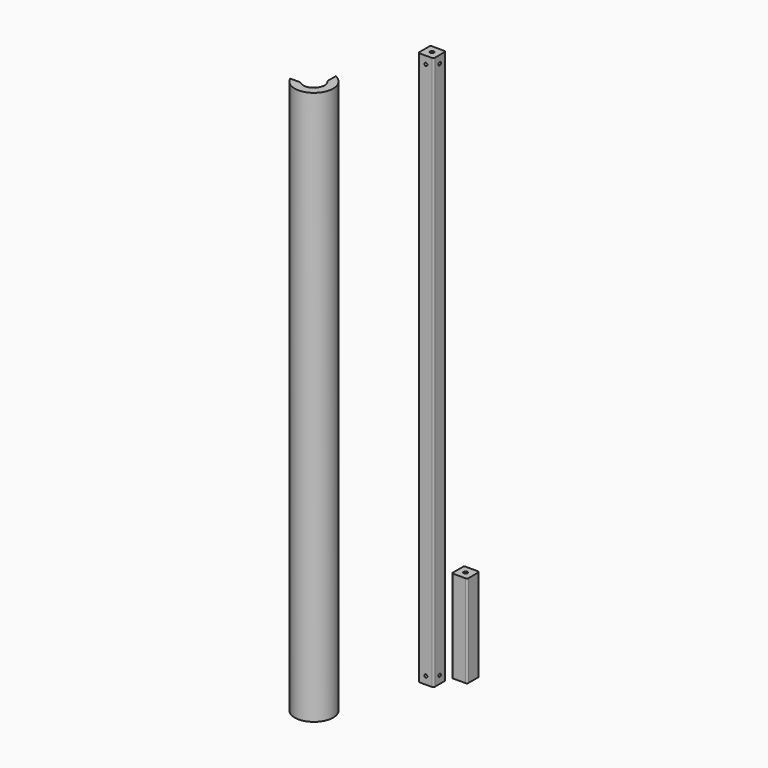
from build123d import *

# Parameters (mm, degrees)
F0_R      = 3.175
F1_DEPTH  = 914.4
F2_R      = 3.175
F3_DEPTH  = 152.4
F4_R      = 2.54
F5_DEPTH  = 25.4
F6_R      = 2.54
F7_DEPTH  = 25.4
F9_DEPTH  = 914.4
F11_W     = 25.4
F11_H     = 50.8
F12_DEPTH = 30.1625


with BuildPart() as f1:
    # F0 (on Top) → F1 (new body)
    with BuildSketch(Plane.XY):
        with BuildLine():
            Line((-108.622879, 28.047709), (-88.302879, 28.047709))
            ThreePointArc((-88.302879, 28.047709), (-86.506827, 28.791658), (-85.762879, 30.587709))
            Line((-85.762879, 30.587709), (-85.762879, 50.907709))
            ThreePointArc((-85.762879, 50.907709), (-86.506827, 52.70376), (-88.302879, 53.447709))
            Line((-88.302879, 53.447709), (-108.622879, 53.447709))
            ThreePointArc((-108.622879, 53.447709), (-110.41893, 52.70376), (-111.162879, 50.907709))
            Line((-111.162879, 50.907709), (-111.162879, 30.587709))
            ThreePointArc((-111.162879, 30.587709), (-110.41893, 28.791658), (-108.622879, 28.047709))
        make_face()
        with Locations((-98.462879, 40.747709)):
            Circle(F0_R, mode=Mode.SUBTRACT)
    extrude(amount=F1_DEPTH)

    # F4 (on face) → F5 (cut)
    with BuildSketch(Plane.XZ.offset(-28.047709)):
        with Locations((-98.462879, 12.7)):
            Circle(F4_R)
        with Locations((-98.462879, 901.7)):
            Circle(F4_R)
    extrude(amount=-F5_DEPTH, mode=Mode.SUBTRACT)

    # F6 (on face) → F7 (cut)
    with BuildSketch(Plane.YZ.offset(-85.762879)):
        with Locations((40.747709, 12.7)):
            Circle(F6_R)
        with Locations((40.747709, 901.7)):
            Circle(F6_R)
    extrude(amount=-F7_DEPTH, mode=Mode.SUBTRACT)


with BuildPart() as f3:
    # F2 (on Top) → F3 (new body)
    with BuildSketch(Plane.XY):
        with BuildLine():
            Line((-81.403815, 63.465207), (-61.083815, 63.465207))
            ThreePointArc((-61.083815, 63.465207), (-59.287764, 64.209156), (-58.543815, 66.005207))
            Line((-58.543815, 66.005207), (-58.543815, 86.325207))
            ThreePointArc((-58.543815, 86.325207), (-59.287764, 88.121258), (-61.083815, 88.865207))
            Line((-61.083815, 88.865207), (-81.403815, 88.865207))
            ThreePointArc((-81.403815, 88.865207), (-83.199866, 88.121258), (-83.943815, 86.325207))
            Line((-83.943815, 86.325207), (-83.943815, 66.005207))
            ThreePointArc((-83.943815, 66.005207), (-83.199866, 64.209156), (-81.403815, 63.465207))
        make_face()
        with Locations((-71.243815, 76.165207)):
            Circle(F2_R, mode=Mode.SUBTRACT)
    extrude(amount=F3_DEPTH)


with BuildPart() as f9:
    # F8 (on Top) → F9 (new body)
    with BuildSketch(Plane.XY):
        with BuildLine():
            Line((-167.313926, -100.994368), (-167.313926, -86.686035))
            ThreePointArc((-167.313926, -86.686035), (-166.043926, -150.160625), (-164.773926, -86.686035))
            Line((-164.773926, -86.686035), (-164.773926, -100.994368))
            ThreePointArc((-164.773926, -100.994368), (-166.043926, -135.873125), (-167.313926, -100.994368))
        make_face()
    extrude(amount=F9_DEPTH)

    # F11 (on face) → F12 (cut, symmetric)
    with BuildSketch(Plane(origin=(0, -100.994368, 0), x_dir=(-1, 0, 0), z_dir=(0, 1, 0))):
        with Locations((166.043926, 0)):
            Rectangle(F11_W, F11_H)
        with Locations((191.443926, 0)):
            Rectangle(F11_W, F11_H)
        with Locations((166.043926, 914.4)):
            Rectangle(F11_W, F11_H)
        with Locations((191.443926, 914.4)):
            Rectangle(F11_W, F11_H)
    extrude(amount=F12_DEPTH, both=True, mode=Mode.SUBTRACT)


solid = Compound([f1.part, f3.part, f9.part])
